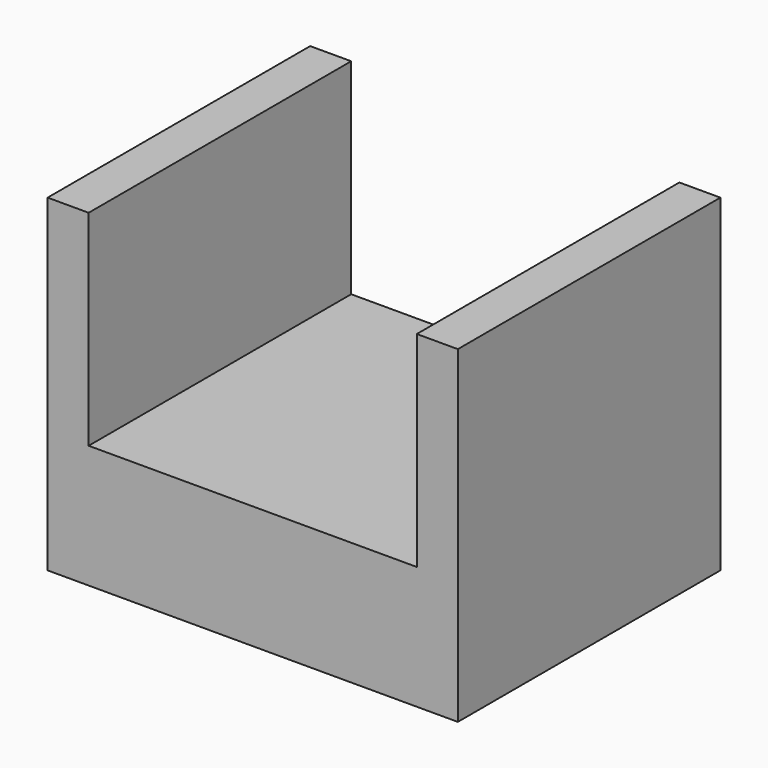
from build123d import *

# Parameters (mm, degrees)
F0_W     = 16
F0_H     = 16
F0_W_2   = 2
F1_DEPTH = 6
F2_DEPTH = 10


with BuildPart() as f1:
    # F0 (on Top) → F1 (new body)
    with BuildSketch(Plane.XY):
        with Locations((-58.860487, -8.514298)):
            Rectangle(F0_W, F0_H)
        with Locations((-67.860487, -8.514298)):
            Rectangle(F0_W_2, F0_H)
        with Locations((-49.860487, -8.514298)):
            Rectangle(F0_W_2, F0_H)
    extrude(amount=-F1_DEPTH)

    # F0 (on Top) → F2 (join)
    with BuildSketch(Plane.XY):
        with Locations((-67.860487, -8.514298)):
            Rectangle(F0_W_2, F0_H)
        with Locations((-49.860487, -8.514298)):
            Rectangle(F0_W_2, F0_H)
    extrude(amount=F2_DEPTH)


solid = f1.part
